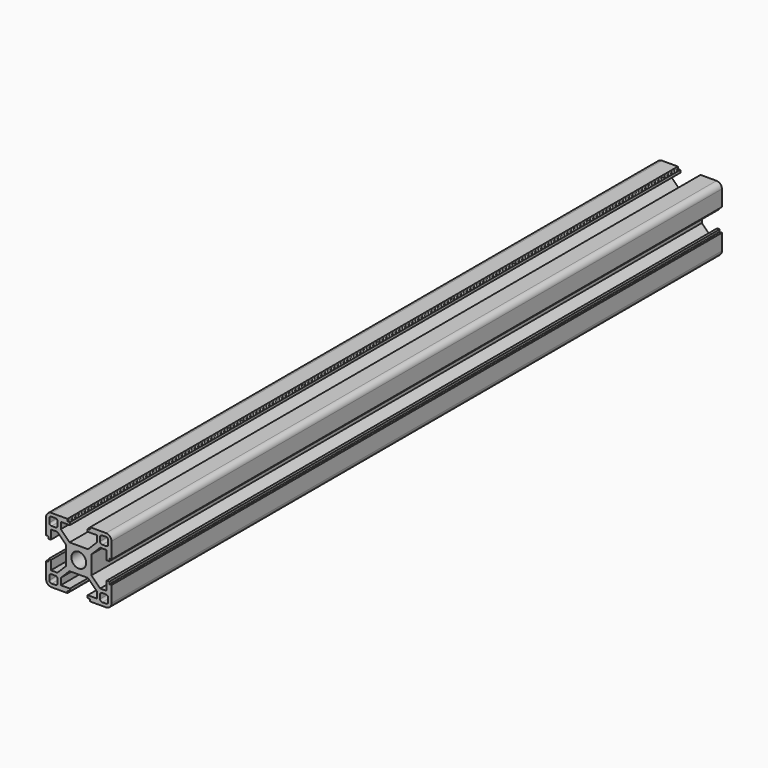
from build123d import *

# Parameters (mm, degrees)
F0_R     = 3.4
F1_DEPTH = 350


with BuildPart() as f1:
    # F0 (on Front) → F1 (new body)
    with BuildSketch(Plane.XZ):
        with BuildLine():
            Line((-67.97487, 38.591727), (-60.67487, 38.591727))
            ThreePointArc((-60.67487, 38.591727), (-58.907103, 39.32396), (-58.17487, 41.091727))
            Line((-58.17487, 41.091727), (-58.17487, 48.391727))
            Line((-58.17487, 48.391727), (-58.97487, 48.391727))
            ThreePointArc((-58.97487, 48.391727), (-59.116292, 48.450306), (-59.17487, 48.591727))
            Line((-59.17487, 48.591727), (-59.17487, 49.491727))
            Line((-59.17487, 49.491727), (-60.37487, 49.491727))
            Line((-60.37487, 49.491727), (-60.37487, 45.341727))
            Line((-60.37487, 45.341727), (-63.369235, 45.341727))
            Line((-63.369235, 45.341727), (-67.37487, 49.347362))
            Line((-67.37487, 49.347362), (-67.37487, 57.836092))
            Line((-67.37487, 57.836092), (-63.369235, 61.841727))
            Line((-63.369235, 61.841727), (-60.37487, 61.841727))
            Line((-60.37487, 61.841727), (-60.37487, 57.691727))
            Line((-60.37487, 57.691727), (-59.17487, 57.691727))
            Line((-59.17487, 57.691727), (-59.17487, 58.591727))
            ThreePointArc((-59.17487, 58.591727), (-59.116292, 58.733149), (-58.97487, 58.791727))
            Line((-58.97487, 58.791727), (-58.17487, 58.791727))
            Line((-58.17487, 58.791727), (-58.17487, 61.841727))
            Line((-58.17487, 61.841727), (-58.17487, 66.091727))
            ThreePointArc((-58.17487, 66.091727), (-58.907103, 67.859494), (-60.67487, 68.591727))
            Line((-60.67487, 68.591727), (-64.92487, 68.591727))
            Line((-64.92487, 68.591727), (-67.97487, 68.591727))
            Line((-67.97487, 68.591727), (-67.97487, 67.891727))
            ThreePointArc((-67.97487, 67.891727), (-68.062738, 67.679595), (-68.27487, 67.591727))
            Line((-68.27487, 67.591727), (-69.07487, 67.591727))
            Line((-69.07487, 67.591727), (-69.07487, 66.391727))
            Line((-69.07487, 66.391727), (-64.92487, 66.391727))
            Line((-64.92487, 66.391727), (-64.92487, 63.397362))
            Line((-64.92487, 63.397362), (-68.930505, 59.391727))
            Line((-68.930505, 59.391727), (-77.419235, 59.391727))
            Line((-77.419235, 59.391727), (-81.42487, 63.397362))
            Line((-81.42487, 63.397362), (-81.42487, 66.391727))
            Line((-81.42487, 66.391727), (-77.27487, 66.391727))
            Line((-77.27487, 66.391727), (-77.27487, 67.591727))
            Line((-77.27487, 67.591727), (-78.07487, 67.591727))
            ThreePointArc((-78.07487, 67.591727), (-78.287002, 67.679595), (-78.37487, 67.891727))
            Line((-78.37487, 67.891727), (-78.37487, 68.591727))
            Line((-78.37487, 68.591727), (-85.67487, 68.591727))
            ThreePointArc((-85.67487, 68.591727), (-87.442637, 67.859494), (-88.17487, 66.091727))
            Line((-88.17487, 66.091727), (-88.17487, 58.791727))
            Line((-88.17487, 58.791727), (-87.37487, 58.791727))
            ThreePointArc((-87.37487, 58.791727), (-87.233449, 58.733149), (-87.17487, 58.591727))
            Line((-87.17487, 58.591727), (-87.17487, 57.691727))
            Line((-87.17487, 57.691727), (-85.97487, 57.691727))
            Line((-85.97487, 57.691727), (-85.97487, 61.841727))
            Line((-85.97487, 61.841727), (-82.980505, 61.841727))
            Line((-82.980505, 61.841727), (-78.97487, 57.836092))
            Line((-78.97487, 57.836092), (-78.97487, 49.347362))
            Line((-78.97487, 49.347362), (-82.980505, 45.341727))
            Line((-82.980505, 45.341727), (-85.97487, 45.341727))
            Line((-85.97487, 45.341727), (-85.97487, 49.491727))
            Line((-85.97487, 49.491727), (-87.17487, 49.491727))
            Line((-87.17487, 49.491727), (-87.17487, 48.591727))
            ThreePointArc((-87.17487, 48.591727), (-87.233449, 48.450306), (-87.37487, 48.391727))
            Line((-87.37487, 48.391727), (-88.17487, 48.391727))
            Line((-88.17487, 48.391727), (-88.17487, 41.091727))
            ThreePointArc((-88.17487, 41.091727), (-87.442637, 39.32396), (-85.67487, 38.591727))
            Line((-85.67487, 38.591727), (-78.37487, 38.591727))
            Line((-78.37487, 38.591727), (-78.37487, 39.291727))
            ThreePointArc((-78.37487, 39.291727), (-78.287002, 39.503859), (-78.07487, 39.591727))
            Line((-78.07487, 39.591727), (-77.27487, 39.591727))
            Line((-77.27487, 39.591727), (-77.27487, 40.791727))
            Line((-77.27487, 40.791727), (-81.42487, 40.791727))
            Line((-81.42487, 40.791727), (-81.42487, 43.786092))
            Line((-81.42487, 43.786092), (-77.419235, 47.791727))
            Line((-77.419235, 47.791727), (-68.930505, 47.791727))
            Line((-68.930505, 47.791727), (-64.92487, 43.786092))
            Line((-64.92487, 43.786092), (-64.92487, 40.791727))
            Line((-64.92487, 40.791727), (-69.07487, 40.791727))
            Line((-69.07487, 40.791727), (-69.07487, 39.591727))
            Line((-69.07487, 39.591727), (-68.27487, 39.591727))
            ThreePointArc((-68.27487, 39.591727), (-68.062738, 39.503859), (-67.97487, 39.291727))
            Line((-67.97487, 39.291727), (-67.97487, 38.591727))
        make_face()
        with BuildLine():
            ThreePointArc((-83.92487, 43.841727), (-83.217764, 43.548834), (-82.92487, 42.841727))
            Line((-82.92487, 42.841727), (-82.92487, 41.091727))
            ThreePointArc((-82.92487, 41.091727), (-83.217764, 40.384621), (-83.92487, 40.091727))
            Line((-83.92487, 40.091727), (-85.67487, 40.091727))
            ThreePointArc((-85.67487, 40.091727), (-86.381977, 40.384621), (-86.67487, 41.091727))
            Line((-86.67487, 41.091727), (-86.67487, 42.841727))
            ThreePointArc((-86.67487, 42.841727), (-86.381977, 43.548834), (-85.67487, 43.841727))
            Line((-85.67487, 43.841727), (-83.92487, 43.841727))
        make_face(mode=Mode.SUBTRACT)
        with BuildLine():
            Line((-62.42487, 43.841727), (-60.67487, 43.841727))
            ThreePointArc((-60.67487, 43.841727), (-59.967764, 43.548834), (-59.67487, 42.841727))
            Line((-59.67487, 42.841727), (-59.67487, 41.091727))
            ThreePointArc((-59.67487, 41.091727), (-59.967764, 40.384621), (-60.67487, 40.091727))
            Line((-60.67487, 40.091727), (-62.42487, 40.091727))
            ThreePointArc((-62.42487, 40.091727), (-63.131977, 40.384621), (-63.42487, 41.091727))
            Line((-63.42487, 41.091727), (-63.42487, 42.841727))
            ThreePointArc((-63.42487, 42.841727), (-63.131977, 43.548834), (-62.42487, 43.841727))
        make_face(mode=Mode.SUBTRACT)
        with BuildLine():
            ThreePointArc((-86.67487, 66.091727), (-86.381977, 66.798834), (-85.67487, 67.091727))
            Line((-85.67487, 67.091727), (-83.92487, 67.091727))
            ThreePointArc((-83.92487, 67.091727), (-83.217764, 66.798834), (-82.92487, 66.091727))
            Line((-82.92487, 66.091727), (-82.92487, 64.341727))
            ThreePointArc((-82.92487, 64.341727), (-83.217764, 63.634621), (-83.92487, 63.341727))
            Line((-83.92487, 63.341727), (-85.67487, 63.341727))
            ThreePointArc((-85.67487, 63.341727), (-86.381977, 63.634621), (-86.67487, 64.341727))
            Line((-86.67487, 64.341727), (-86.67487, 66.091727))
        make_face(mode=Mode.SUBTRACT)
        with Locations((-73.17487, 53.591727)):
            Circle(F0_R, mode=Mode.SUBTRACT)
        with BuildLine():
            ThreePointArc((-59.67487, 64.341727), (-59.967764, 63.634621), (-60.67487, 63.341727))
            Line((-60.67487, 63.341727), (-62.42487, 63.341727))
            ThreePointArc((-62.42487, 63.341727), (-63.131977, 63.634621), (-63.42487, 64.341727))
            Line((-63.42487, 64.341727), (-63.42487, 66.091727))
            ThreePointArc((-63.42487, 66.091727), (-63.131977, 66.798834), (-62.42487, 67.091727))
            Line((-62.42487, 67.091727), (-60.67487, 67.091727))
            ThreePointArc((-60.67487, 67.091727), (-59.967764, 66.798834), (-59.67487, 66.091727))
            Line((-59.67487, 66.091727), (-59.67487, 64.341727))
        make_face(mode=Mode.SUBTRACT)
    extrude(amount=F1_DEPTH)


solid = f1.part
